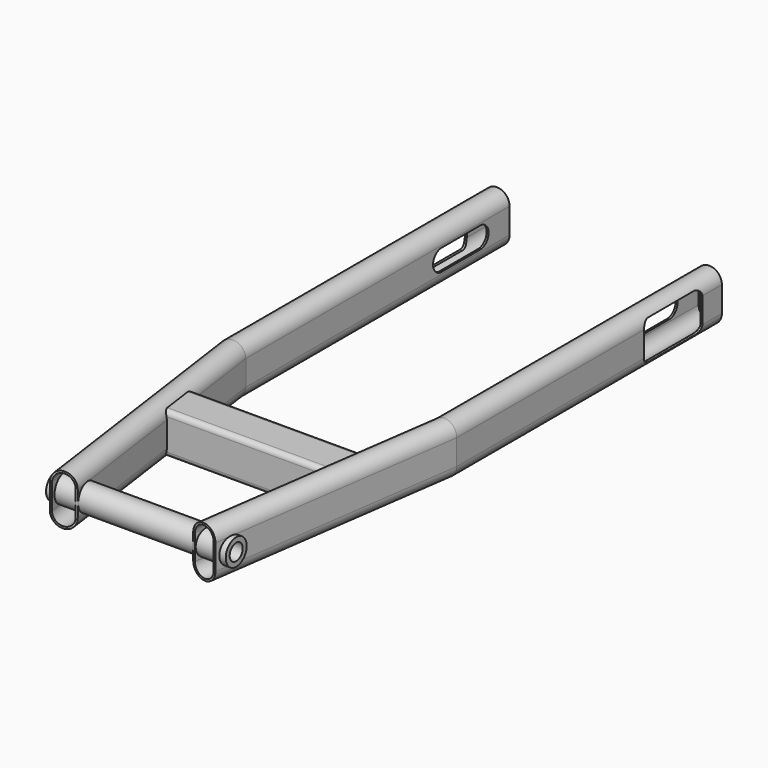
from build123d import *

# Parameters (mm, degrees)
F4_W      = 29.5
F4_H      = 13
F5_DEPTH  = 500
F7_DEPTH  = 4
F11_W     = 25
F11_H     = 25
F11_W_2   = 21.8
F11_H_2   = 21.8
F13_R     = 1.4
F14_R     = 3
F10_R     = 8
F10_R_2   = 5
F16_DEPTH = 55
F17_R     = 5
F18_DEPTH = 110


with BuildPart() as f2:
    # F2: sweep along a path in F0
    with BuildLine(Plane.XY) as f2_path:
        Line((-65, 0), (-65, -202.36))
        Line((-65, -202.36), (-43.0064748553, -358.8520629032))
    # F1 (on Front) → F2 (sweep)
    with BuildSketch(Plane.XZ):
        with BuildLine():
            ThreePointArc((-57.25, 7.75), (-65, 15.5), (-72.75, 7.75))
            Line((-72.75, 7.75), (-72.75, -7.75))
            ThreePointArc((-72.75, -7.75), (-65, -15.5), (-57.25, -7.75))
            Line((-57.25, -7.75), (-57.25, 7.75))
        make_face()
        with BuildLine():
            ThreePointArc((-71.55, 7.75), (-65, 14.3), (-58.45, 7.75))
            Line((-58.45, 7.75), (-58.45, -7.75))
            ThreePointArc((-58.45, -7.75), (-65, -14.3), (-71.55, -7.75))
            Line((-71.55, -7.75), (-71.55, 7.75))
        make_face(mode=Mode.SUBTRACT)
    sweep(path=f2_path.line, transition=Transition.RIGHT)


with BuildPart() as f3_1:
    # F3: instance of F2
    add(f2.part.mirror(Plane.YZ))


with BuildPart() as f5_tool:
    # F4 (on Right) → F5 (new body, symmetric)
    with BuildSketch(Plane.YZ):
        with Locations((-37.29, 0)):
            Rectangle(F4_W, F4_H)
        with BuildLine():
            Line((-52.04, -6.5), (-52.04, 6.5))
            ThreePointArc((-52.04, 6.5), (-58.54, 0), (-52.04, -6.5))
        make_face()
        with BuildLine():
            ThreePointArc((-22.54, -6.5), (-16.04, 0), (-22.54, 6.5))
            Line((-22.54, 6.5), (-22.54, -6.5))
        make_face()
    extrude(amount=F5_DEPTH, both=True)


with BuildPart() as f2_1:
    add(f2.part)

    # F5: cut by f5_tool
    add(f5_tool.part, mode=Mode.SUBTRACT)

    # F6 (on face) → F7 (cut)
    with BuildSketch(Plane(origin=(-72.75, 0, 0), x_dir=(0, -1, 0), z_dir=(-1, 0, 0))):
        with BuildLine():
            ThreePointArc((59.7899871429, 7), (58.3255210488, 10.5355339059), (54.7899871429, 12))
            Line((54.7899871429, 12), (19.79, 12.03))
            ThreePointArc((19.79, 12.03), (16.2332528906, 10.5567471094), (14.76, 7))
            Line((14.76, 7), (14.76, -7))
            ThreePointArc((14.76, -7), (16.2332566564, -10.5567562007), (19.7900128571, -12.0300128571))
            Line((19.7900128571, -12.0300128571), (54.79, -11.9999871429))
            ThreePointArc((54.79, -11.9999871429), (58.3255248146, -10.5355248146), (59.7899871429, -7))
            Line((59.7899871429, -7), (59.7899871429, 7))
        make_face()
    extrude(amount=-F7_DEPTH, mode=Mode.SUBTRACT)


with BuildPart() as f3_1_1:
    add(f3_1.part)

    # F5: cut by f5_tool
    add(f5_tool.part, mode=Mode.SUBTRACT)


with BuildPart() as f9_1:
    # F9: instance of F2
    add(f2_1.part.mirror(Plane.YZ))


with BuildPart() as f2_2:
    add(f2_1.part)

    # F11 (on Right) → F12 (join, up to the next surface of F2)
    with BuildSketch(Plane.YZ):
        with Locations((-262.6206544357, 0)):
            Rectangle(F11_W, F11_H)
        with Locations((-262.6206544357, 0)):
            Rectangle(F11_W_2, F11_H_2, mode=Mode.SUBTRACT)
    extrude(until=Until.NEXT, dir=(-1, 0, 0))

    # F13
    f13_edges = [f2_2.edges().sort_by_distance(p)[0] for p in [
        (-25.456132, -251.720654, -10.9),
        (-23.924237, -273.520654, -10.9),
        (-23.924237, -273.520654, 10.9),
        (-25.456132, -251.720654, 10.9),
    ]]
    fillet(f13_edges, radius=F13_R)

    # F14
    f14_edges = [f2_2.edges().sort_by_distance(p)[0] for p in [
        (-26.051886, -250.120654, 12.5),
        (-24.295126, -275.120654, 12.5),
        (-24.295126, -275.120654, -12.5),
        (-26.051886, -250.120654, -12.5),
    ]]
    fillet(f14_edges, radius=F14_R)


with BuildPart() as f15_1:
    # F15: instance of F2
    add(f2_2.part.mirror(Plane.YZ))


with BuildPart() as f2_3:
    add(f2_2.part)

    add(f9_1.part)  # F16 merges F9_1

    add(f15_1.part)  # F16 merges F15_1
    # F10 (on Right) → F16 (join, symmetric)
    with BuildSketch(Plane.YZ):
        with Locations((-349.4506544357, 0)):
            Circle(F10_R)
        with Locations((-349.4506544357, 0)):
            Circle(F10_R_2, mode=Mode.SUBTRACT)
        with Locations((-349.4506544357, 0)):
            Circle(F10_R_2)
    extrude(amount=F16_DEPTH, both=True)

    # F17 (on face) → F18 (cut)
    with BuildSketch(Plane.YZ.offset(55)):
        with Locations((-349.4506544357, 0)):
            Circle(F17_R)
    extrude(amount=-F18_DEPTH, mode=Mode.SUBTRACT)


solid = f2_3.part
